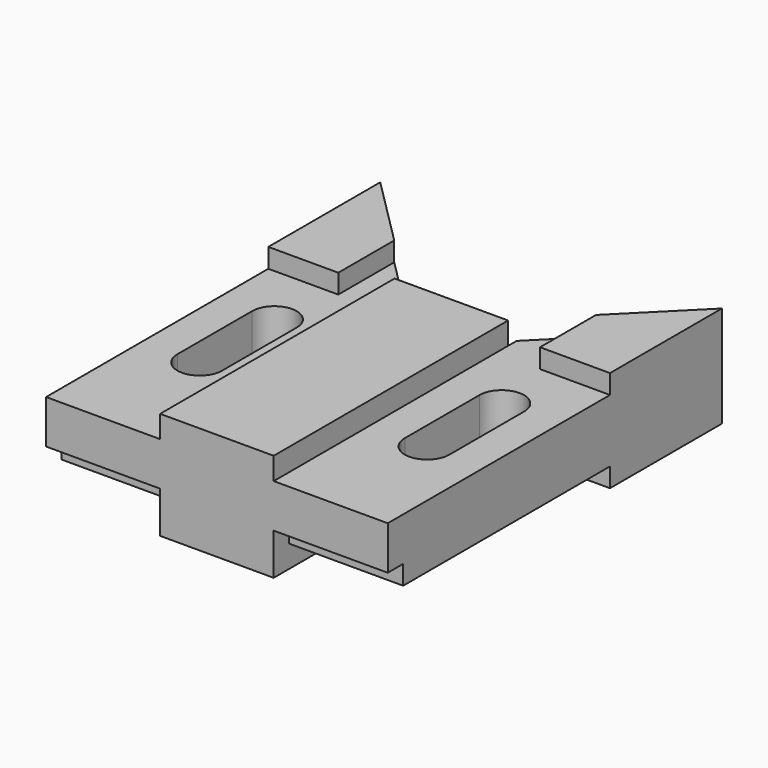
from build123d import *

# Parameters (mm, degrees)
F0_W      = 28.448
F0_H      = 73.406
F1_DEPTH  = 26.924
F2_W      = 104.648
F2_H      = 15.748
F3_DEPTH  = 28.575
F4_W      = 28.575
F4_H      = 104.648
F5_DEPTH  = 15.748
F6_W      = 4.826
F6_H      = 4.826
F5_FACE_W = 104.648
F5_FACE_H = 15.748
F7_DEPTH  = 28.575
F8_W      = 4.826
F8_H      = 4.826
F9_DEPTH  = 28.575
F11_DEPTH = 25.4
F13_DEPTH = 25.4
F15_DEPTH = 17.526
F17_DEPTH = 25.4
F18_W     = 35.052
F18_H     = 4.826
F18_H_2   = 15.748
F19_DEPTH = 17.526
F21_DEPTH = 25.4
F23_DEPTH = 25.4


with BuildPart() as f1:
    # F0 (on Top) → F1 (new body)
    with BuildSketch(Plane.XY):
        with Locations((0, -5.180504173)):
            Rectangle(F0_W, F0_H)
    extrude(amount=F1_DEPTH)

    # F2 (on face) → F3 (join)
    with BuildSketch(Plane.YZ.offset(14.224)):
        with Locations((10.440495827, 13.462)):
            Rectangle(F2_W, F2_H)
    extrude(amount=F3_DEPTH)

    # F4 (on face) → F5 (join)
    with BuildSketch(Plane.XY.offset(21.336)):
        with Locations((28.5115, 10.440495827)):
            Rectangle(F4_W, F4_H)
        with Locations((-28.5115, 10.440495827)):
            Rectangle(F4_W, F4_H)
    extrude(amount=-F5_DEPTH)

    # F6 (on face) + F5_face (on face) → F7 (cut)
    with BuildSketch(Plane.YZ.offset(42.799)):
        with Locations((-39.470504173, 8.001)):
            Rectangle(F6_W, F6_H)
    with BuildSketch(Plane(origin=(-42.799, 10.440495827, 13.462), x_dir=(0, -1, 0), z_dir=(-1, 0, 0))):
        Rectangle(F5_FACE_W, F5_FACE_H)
    extrude(amount=-F7_DEPTH, dir=(1, 0, 0), mode=Mode.SUBTRACT)

    # F8 (on face) → F9 (cut)
    with BuildSketch(Plane(origin=(-42.799, 0, 0), x_dir=(0, -1, 0), z_dir=(-1, 0, 0))):
        with Locations((39.470504173, 8.001)):
            Rectangle(F8_W, F8_H)
    extrude(amount=-F9_DEPTH, mode=Mode.SUBTRACT)

    # F10 (on face) → F11 (cut)
    with BuildSketch(Plane(origin=(0, 0, 5.588), x_dir=(1, 0, 0), z_dir=(0, 0, -1))):
        Polygon((-14.224, -34.189495827), (-42.799, -62.764495827), (-14.224, -62.764495827), align=None)
    extrude(amount=-F11_DEPTH, mode=Mode.SUBTRACT)

    # F12 (on face) → F13 (cut)
    with BuildSketch(Plane.XY.offset(21.336)):
        Polygon((42.799, 62.764495827), (14.224, 62.764495827), (14.224, 34.189495827), align=None)
    extrude(amount=-F13_DEPTH, mode=Mode.SUBTRACT)

    # F14 (on face) → F15 (join)
    with BuildSketch(Plane(origin=(-42.799, 0, 0), x_dir=(0, -1, 0), z_dir=(-1, 0, 0))):
        Polygon((-62.764495827, 26.162), (-62.764495827, 21.336), (-62.764495827, 5.588), (-62.764495827, 0.762), (-27.712495827, 0.762), (-27.712495827, 5.588), (-27.712495827, 21.336), (-27.712495827, 26.162), align=None)
    extrude(amount=-F15_DEPTH)

    # F16 (on face) → F17 (cut)
    with BuildSketch(Plane.XY.offset(26.162)):
        Polygon((-25.273, 45.238495827), (-25.273, 62.764495827), (-42.799, 62.764495827), align=None)
    extrude(amount=-F17_DEPTH, mode=Mode.SUBTRACT)

    # F18 (on face) → F19 (join)
    with BuildSketch(Plane.YZ.offset(42.799)):
        with Locations((45.238495827, 23.749)):
            Rectangle(F18_W, F18_H)
        with Locations((45.238495827, 13.462)):
            Rectangle(F18_W, F18_H_2)
        with Locations((45.238495827, 3.175)):
            Rectangle(F18_W, F18_H)
    extrude(amount=-F19_DEPTH)

    # F20 (on face) → F21 (cut)
    with BuildSketch(Plane.XY.offset(26.162)):
        Polygon((25.273, 45.238495827), (42.799, 62.764495827), (25.273, 62.764495827), align=None)
    extrude(amount=-F21_DEPTH, mode=Mode.SUBTRACT)

    # F22 (on face) → F23 (cut)
    with BuildSketch(Plane.XY.offset(21.336)):
        with BuildLine():
            ThreePointArc((-22.8882461797, 11.710495827), (-28.4762461797, 17.298495827), (-34.0642461797, 11.710495827))
            Line((-34.0642461797, 11.710495827), (-34.0642461797, -11.657504173))
            ThreePointArc((-34.0642461797, -11.657504173), (-28.4762461797, -17.245504173), (-22.8882461797, -11.657504173))
            Line((-22.8882461797, -11.657504173), (-22.8882461797, 11.710495827))
        make_face()
        with BuildLine():
            Line((34.0642461797, -11.657504173), (34.0642461797, 11.710495827))
            ThreePointArc((34.0642461797, 11.710495827), (28.4762461797, 17.298495827), (22.8882461797, 11.710495827))
            Line((22.8882461797, 11.710495827), (22.8882461797, -11.657504173))
            ThreePointArc((22.8882461797, -11.657504173), (28.4762461797, -17.245504173), (34.0642461797, -11.657504173))
        make_face()
    extrude(amount=-F23_DEPTH, mode=Mode.SUBTRACT)


solid = f1.part
